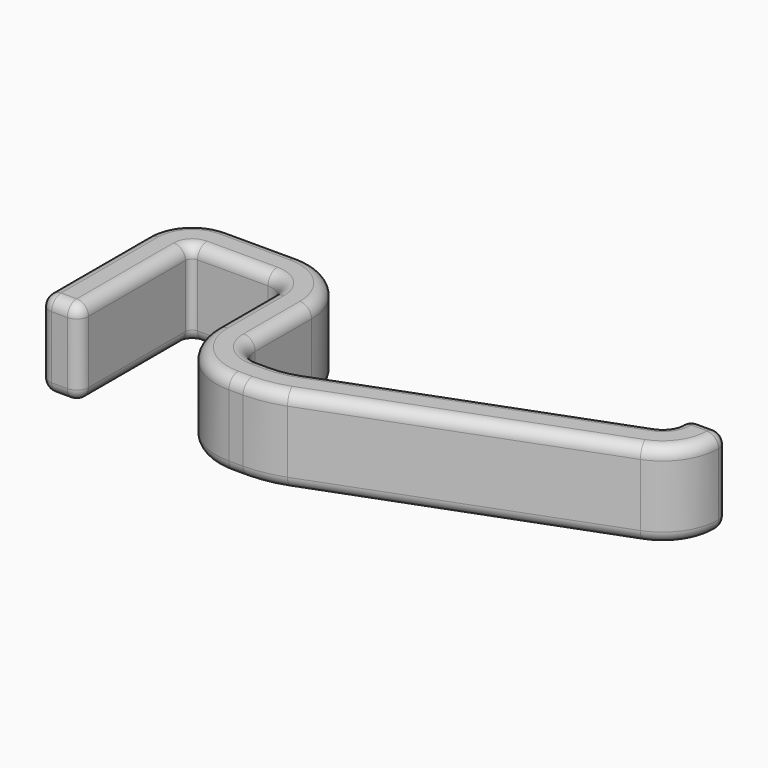
from build123d import *

# Parameters (mm, degrees)
F1_W = 5
F1_H = 11
F3_R = 1.5


with BuildPart() as f2:
    # F2: sweep along a path in F0
    with BuildLine(Plane.XY) as f2_path:
        Line((-10.824024, 0), (-10.824024, 17))
        ThreePointArc((-10.824024, 17), (-9.945345, 19.12132), (-7.824024, 20))
        Line((-7.824024, 20), (1.175976, 20))
        ThreePointArc((1.175976, 20), (4.71151, 18.535534), (6.175976, 15))
        Line((6.175976, 15), (6.175976, 6))
        ThreePointArc((6.175976, 6), (7.933335, 1.757359), (12.175976, 0))
        Line((12.175976, 0), (13.999961, 0))
        ThreePointArc((13.999961, 0), (16.141058, 0.192557), (18.213442, 0.76405))
        Line((18.213442, 0.76405), (52.931593, 13.783356))
        ThreePointArc((52.931593, 13.783356), (55.285604, 15.617028), (56.175976, 18.465002))
        Line((56.175976, 18.465002), (56.175976, 20))
    # F1 (on Front) → F2 (sweep)
    with BuildSketch(Plane.XZ):
        with Locations((-11.190739, -0.00427)):
            Rectangle(F1_W, F1_H)
    sweep(path=f2_path.line)

    # F3
    f3_edges = [f2.edges().sort_by_distance(p)[0] for p in [
        (-8.690739, 8.5, 5.49573),
        (-11.190739, 0, 5.49573),
        (-13.690739, 8.5, 5.49573),
        (-11.972418, 21.148394, 5.49573),
        (-3.324024, 22.866714, 5.49573),
        (6.738583, 20.562607, 5.49573),
        (9.04269, 10.5, 5.49573),
        (9.960408, 3.784433, 5.49573),
        (13.087968, 2.866714, 5.49573),
        (15.629565, 3.013271, 5.49573),
        (34.565947, 9.957892, 5.49573),
        (52.929378, 17.249894, 5.49573),
        (53.309261, 19.232501, 5.49573),
        (55.809261, 20, 5.49573),
        (58.309261, 19.232501, 5.49573),
        (57.039006, 14.40192, 5.49573),
        (36.321564, 5.276246, 5.49573),
        (16.521689, -1.906496, 5.49573),
        (13.087968, -2.133286, 5.49573),
        (6.424874, 0.248899, 5.49573),
        (4.04269, 10.5, 5.49573),
        (3.203049, 17.027073, 5.49573),
        (-3.324024, 17.866714, 5.49573),
        (-8.436884, 17.61286, 5.49573),
        (-13.690739, 0, -0.00427),
        (-13.690739, 8.5, -5.50427),
        (-13.690739, 17, -0.00427),
        (-11.190739, 0, -5.50427),
        (-8.690739, 8.5, -5.50427),
        (-8.436884, 17.61286, -5.50427),
        (-3.324024, 17.866714, -5.50427),
        (3.203049, 17.027073, -5.50427),
        (4.04269, 10.5, -5.50427),
        (6.424874, 0.248899, -5.50427),
        (13.087968, -2.133286, -5.50427),
        (16.521689, -1.906496, -5.50427),
        (36.321564, 5.276246, -5.50427),
        (57.039006, 14.40192, -5.50427),
        (58.309261, 19.232501, -5.50427),
        (55.809261, 20, -5.50427),
        (53.309261, 19.232501, -5.50427),
        (52.929378, 17.249894, -5.50427),
        (34.565947, 9.957892, -5.50427),
        (15.629565, 3.013271, -5.50427),
        (13.087968, 2.866714, -5.50427),
        (9.960408, 3.784433, -5.50427),
        (9.04269, 10.5, -5.50427),
        (6.738583, 20.562607, -5.50427),
        (-3.324024, 22.866714, -5.50427),
        (-11.972418, 21.148394, -5.50427),
        (-8.690739, 0, -0.00427),
        (-8.690739, 17, -0.00427),
        (-7.824024, 22.866714, -0.00427),
        (-7.824024, 17.866714, -0.00427),
        (1.175976, 22.866714, -0.00427),
        (1.175976, 17.866714, -0.00427),
        (9.04269, 15, -0.00427),
        (4.04269, 15, -0.00427),
        (9.04269, 6, -0.00427),
        (4.04269, 6, -0.00427),
        (12.175976, 2.866714, -0.00427),
        (12.175976, -2.133286, -0.00427),
        (13.999961, 2.866714, -0.00427),
        (13.999961, -2.133286, -0.00427),
        (17.206871, 3.448238, -0.00427),
        (18.962489, -1.233408, -0.00427),
        (51.925022, 16.467545, -0.00427),
        (53.680639, 11.785899, -0.00427),
        (53.309261, 18.465002, -0.00427),
        (58.309261, 18.465002, -0.00427),
        (53.309261, 20, -0.00427),
        (58.309261, 20, -0.00427),
    ]]
    fillet(f3_edges, radius=F3_R)


solid = f2.part
